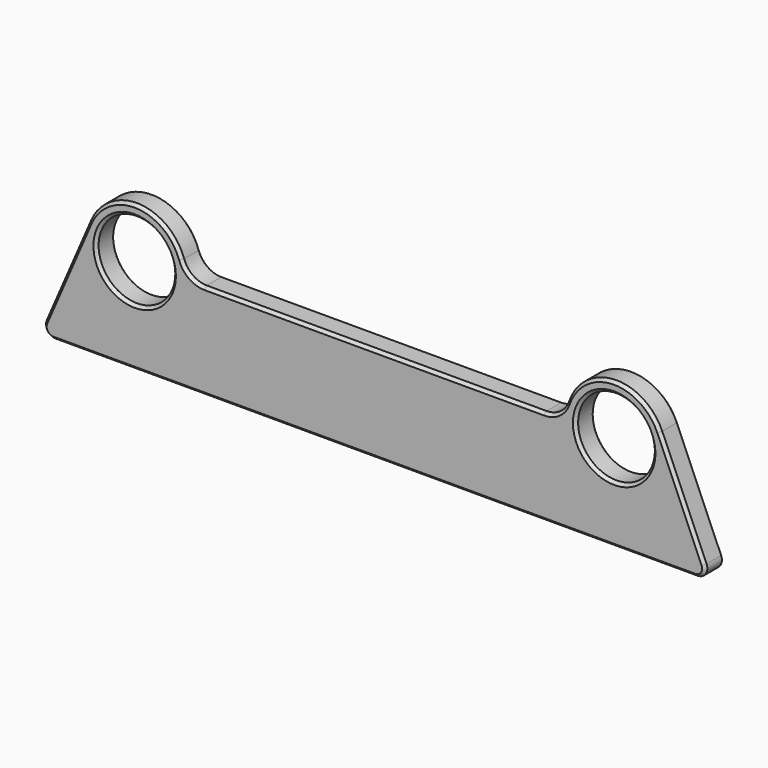
from build123d import *

# Parameters (mm, degrees)
F0_R     = 8
F1_DEPTH = 5
F2_R     = 5
F3_R     = 2
F5_SIZE  = 0.6


with BuildPart() as f1:
    # F0 (on Front) → F1 (new body)
    with BuildSketch(Plane.XZ):
        with BuildLine():
            ThreePointArc((-59.542741, 24.134741), (-52.111337, 9.81657), (-39.6, 20))
            ThreePointArc((-39.6, 20), (-47.888663, 30.18343), (-59.542741, 24.134741))
        make_face()
        with Locations((-50, 20)):
            Circle(F0_R, mode=Mode.SUBTRACT)
        with BuildLine():
            Line((0, 20), (-39.6, 20))
            ThreePointArc((-39.6, 20), (-52.111337, 9.81657), (-59.542741, 24.134741))
            Line((-59.542741, 24.134741), (-70, 0))
            Line((-70, 0), (-30, 0))
            Line((-30, 0), (0, 0))
            Line((0, 0), (0, 20))
        make_face()
    extrude(amount=F1_DEPTH)

    # F2
    f2_edges = [f1.edges().sort_by_distance(p)[0] for p in [
        (-39.6, -2.5, 20),
        (-59.542741, -2.5, 24.134741),
    ]]
    fillet(f2_edges, radius=F2_R)

    # F3
    f3_edges = [f1.edges().sort_by_distance(p)[0] for p in [
        (-70, -2.5, 0),
    ]]
    fillet(f3_edges, radius=F3_R)

    # F4: F1 across face


with BuildPart() as f1_1:
    add(f1.part)
    add(f1.part.mirror(Plane(origin=(0, -2.5, 10), x_dir=(0, 1, 0), z_dir=(1, 0, 0))))

    # F5
    f5_edges = [f1_1.edges().sort_by_distance(p)[0] for p in [
        (-64.165822, -5, 13.464942),
        (-68.625628, -5, 0.90234),
        (0, -5, 0),
        (68.625628, -5, 0.90234),
        (64.165822, -5, 13.464942),
        (49.593464, -5, 30.392051),
        (38.339723, -5, 20.930793),
        (0, -5, 20),
        (-38.339723, -5, 20.930793),
        (-49.593464, -5, 30.392051),
        (-58, -5, 20),
        (58, -5, 20),
        (-64.165822, 0, 13.464942),
        (-68.625628, 0, 0.90234),
        (0, 0, 0),
        (68.625628, 0, 0.90234),
        (64.165822, 0, 13.464942),
        (49.593464, 0, 30.392051),
        (38.339723, 0, 20.930793),
        (0, 0, 20),
        (-38.339723, 0, 20.930793),
        (-49.593464, 0, 30.392051),
        (-58, 0, 20),
        (58, 0, 20),
    ]]
    chamfer(f5_edges, length=F5_SIZE)


solid = f1_1.part
